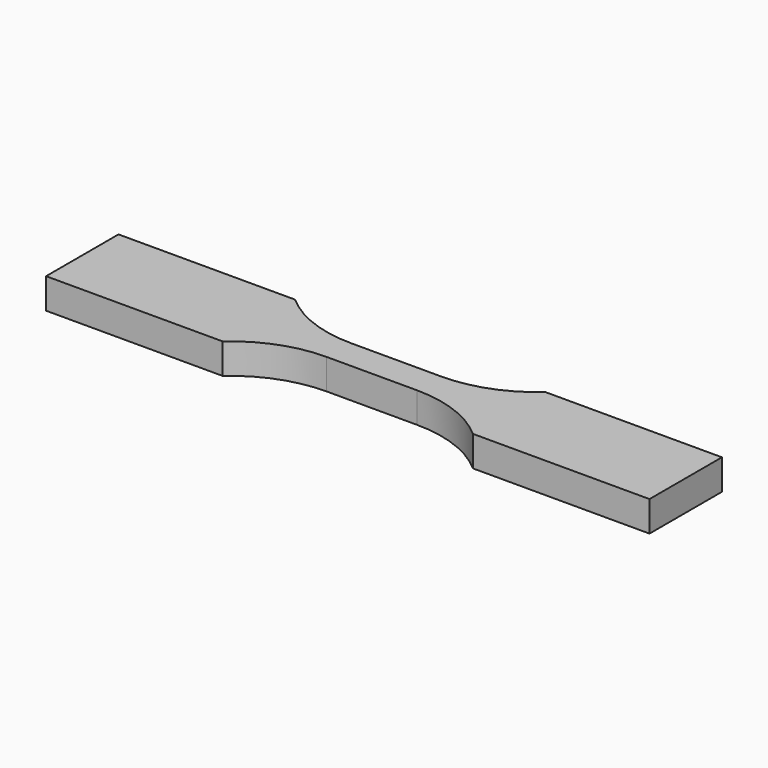
from build123d import *

# Parameters (mm, degrees)
F1_DEPTH = 3.2


with BuildPart() as f1:
    # F0 (on Top) → F1 (new body)
    with BuildSketch(Plane.XY):
        with BuildLine():
            Line((0, 1.218053), (-18.579833, 1.218053))
            Line((-18.579833, 1.218053), (-18.579833, -3.544447))
            Line((-18.579833, -3.544447), (-18.579833, -8.306947))
            Line((-18.579833, -8.306947), (0, -8.306947))
            ThreePointArc((0, -8.306947), (3.912919, -5.947395), (8.407667, -5.125409))
            Line((8.407667, -5.125409), (13.170167, -5.125409))
            Line((13.170167, -5.125409), (13.170167, -1.963484))
            Line((13.170167, -1.963484), (8.407667, -1.963484))
            ThreePointArc((8.407667, -1.963484), (3.912919, -1.141499), (0, 1.218053))
        make_face()
        with BuildLine():
            Line((17.932667, -1.963484), (13.170167, -1.963484))
            Line((13.170167, -1.963484), (13.170167, -5.125409))
            Line((13.170167, -5.125409), (17.932667, -5.125409))
            ThreePointArc((17.932667, -5.125409), (22.427415, -5.947395), (26.340334, -8.306947))
            Line((26.340334, -8.306947), (44.920167, -8.306947))
            Line((44.920167, -8.306947), (44.920167, -3.544447))
            Line((44.920167, -3.544447), (44.920167, 1.218053))
            Line((44.920167, 1.218053), (26.340334, 1.218053))
            ThreePointArc((26.340334, 1.218053), (22.427415, -1.141499), (17.932667, -1.963484))
        make_face()
    extrude(amount=F1_DEPTH)


solid = f1.part
